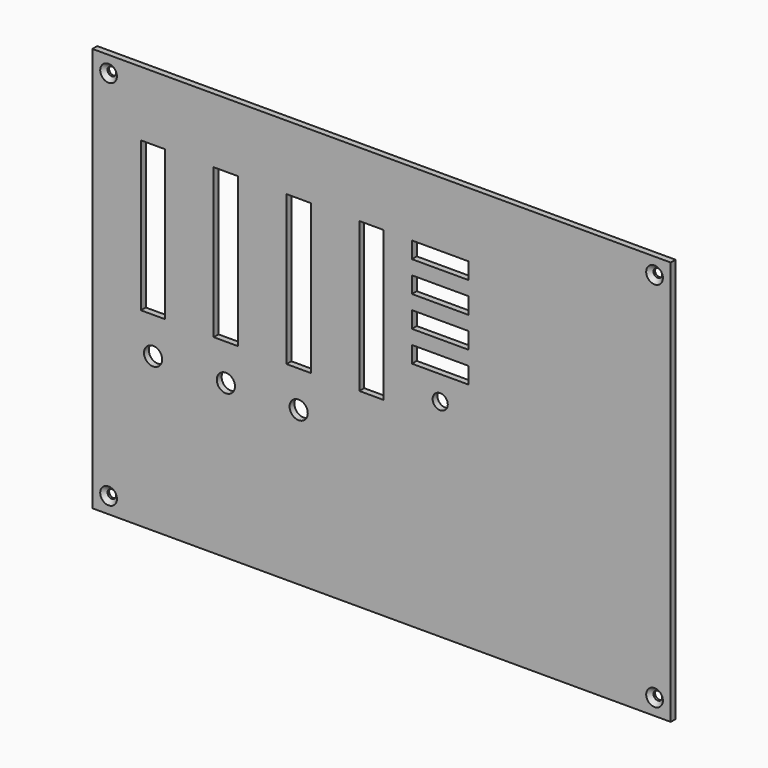
from build123d import *

# Parameters (mm, degrees)
F0_W     = 454.025
F0_H     = 317.5
F0_R     = 3.3909
F0_R_2   = 7.14883
F0_W_2   = 19.05
F0_H_2   = 117.475
F0_R_3   = 5.9436
F0_W_3   = 44.45
F0_H_3   = 12.954
F1_DEPTH = 4.7752
F2_SIZE  = 3.175


with BuildPart() as f1:
    # F0 (on Front) → F1 (new body)
    with BuildSketch(Plane.XZ):
        with Locations((65.484239, 45.464066)):
            Rectangle(F0_W, F0_H)
        with Locations((-148.828261, -100.585934)):
            Circle(F0_R, mode=Mode.SUBTRACT)
        with Locations((-113.903261, 7.364066)):
            Circle(F0_R_2, mode=Mode.SUBTRACT)
        with Locations((-56.753261, 7.364066)):
            Circle(F0_R_2, mode=Mode.SUBTRACT)
        with Locations((0.396739, 7.364066)):
            Circle(F0_R_2, mode=Mode.SUBTRACT)
        with Locations((279.796739, -100.585934)):
            Circle(F0_R, mode=Mode.SUBTRACT)
        with Locations((-113.903261, 94.676566)):
            Rectangle(F0_W_2, F0_H_2, mode=Mode.SUBTRACT)
        with Locations((-56.753261, 94.676566)):
            Rectangle(F0_W_2, F0_H_2, mode=Mode.SUBTRACT)
        with Locations((0.396739, 94.676566)):
            Rectangle(F0_W_2, F0_H_2, mode=Mode.SUBTRACT)
        with Locations((57.546739, 94.676566)):
            Rectangle(F0_W_2, F0_H_2, mode=Mode.SUBTRACT)
        with Locations((-148.828261, 191.514066)):
            Circle(F0_R, mode=Mode.SUBTRACT)
        with Locations((111.521739, 49.172466)):
            Circle(F0_R_3, mode=Mode.SUBTRACT)
        with Locations((111.521739, 74.699466)):
            Rectangle(F0_W_3, F0_H_3, mode=Mode.SUBTRACT)
        with Locations((111.521739, 98.778666)):
            Rectangle(F0_W_3, F0_H_3, mode=Mode.SUBTRACT)
        with Locations((111.521739, 122.857866)):
            Rectangle(F0_W_3, F0_H_3, mode=Mode.SUBTRACT)
        with Locations((111.521739, 146.937066)):
            Rectangle(F0_W_3, F0_H_3, mode=Mode.SUBTRACT)
        with Locations((279.796739, 191.514066)):
            Circle(F0_R, mode=Mode.SUBTRACT)
    extrude(amount=F1_DEPTH)

    # F2
    f2_edges = [f1.edges().sort_by_distance(p)[0] for p in [
        (-152.219161, -4.7752, -100.585934),
        (276.405839, -4.7752, -100.585934),
        (276.405839, -4.7752, 191.514066),
        (-152.219161, -4.7752, 191.514066),
    ]]
    chamfer(f2_edges, length=F2_SIZE)


solid = f1.part
